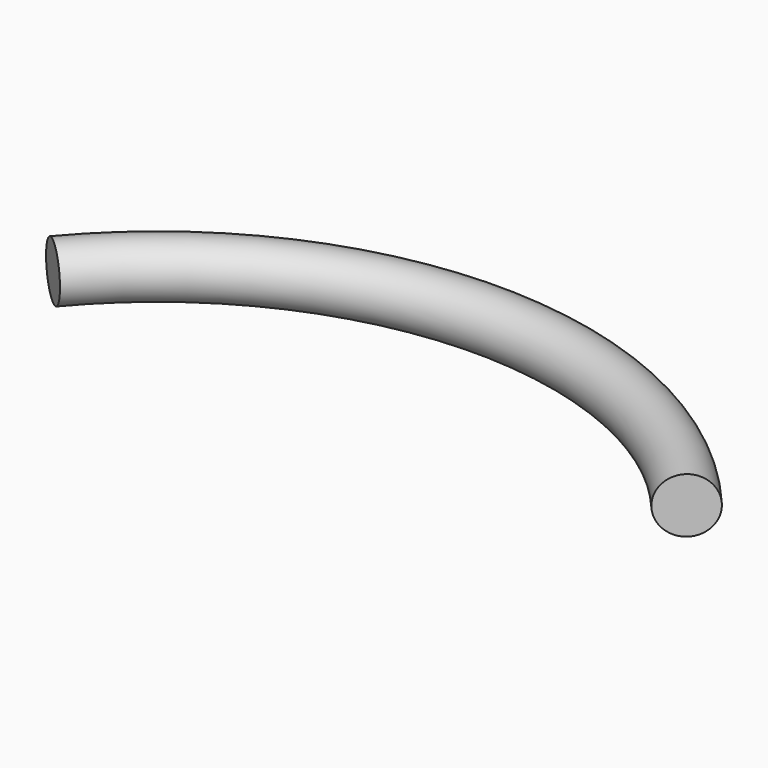
from build123d import *

# Parameters (mm, degrees)
F0_R          = 10
F1_ANGLE_BACK = 50
F1_ANGLE      = 100


with BuildPart() as f1:
    # F0 (on Right) → F1 (revolve)
    with BuildSketch(Plane.YZ, mode=Mode.PRIVATE) as f1_sk:
        Circle(F0_R)
    revolve(f1_sk.sketch.rotate(Axis((0, -150, 0.6350800395), (0, 0, -1)), -F1_ANGLE_BACK), axis=Axis((0, -150, 0.6350800395), (0, 0, -1)), revolution_arc=F1_ANGLE)


solid = f1.part
